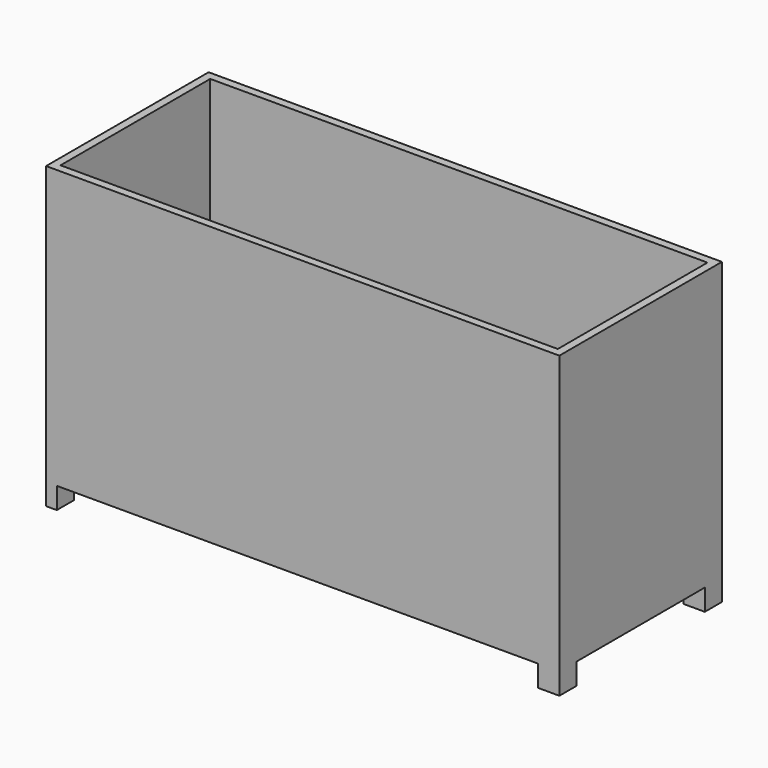
from build123d import *

# Parameters (mm, degrees)
F0_W     = 1219.2
F0_H     = 711.2
F1_DEPTH = 482.6
F2_W     = 1117.6
F2_H     = 50.8
F3_DEPTH = 482.6
F4_W     = 381
F4_H     = 50.8
F5_DEPTH = 1219.2
F6_W     = 1181.1
F6_H     = 444.5
F7_DEPTH = 660.4
F8_W     = 25.4
F8_H     = 50.8
F9_DEPTH = 50.8


with BuildPart() as f1:
    # F0 (on Front) → F1 (new body)
    with BuildSketch(Plane.XZ):
        with Locations((19.749452, 355.6)):
            Rectangle(F0_W, F0_H)
    extrude(amount=-F1_DEPTH)

    # F2 (on face) → F3 (cut, through all)
    with BuildSketch(Plane.XZ):
        with Locations((19.749452, 25.4)):
            Rectangle(F2_W, F2_H)
    extrude(amount=-F3_DEPTH, mode=Mode.SUBTRACT)

    # F4 (on face) → F5 (cut, through all)
    with BuildSketch(Plane.YZ.offset(629.349452)):
        with Locations((241.3, 25.4)):
            Rectangle(F4_W, F4_H)
    extrude(amount=-F5_DEPTH, mode=Mode.SUBTRACT)

    # F6 (on face) → F7 (cut, through all)
    with BuildSketch(Plane.XY.offset(711.2)):
        with Locations((19.749452, 241.3)):
            Rectangle(F6_W, F6_H)
    extrude(amount=-F7_DEPTH, mode=Mode.SUBTRACT)

    # F8 (on face) → F9 (cut)
    with BuildSketch(Plane(origin=(0, 0, 0), x_dir=(1, 0, 0), z_dir=(0, 0, -1))):
        with Locations((-551.750548, -25.4)):
            Rectangle(F8_W, F8_H)
    extrude(amount=-F9_DEPTH, mode=Mode.SUBTRACT)


solid = f1.part
